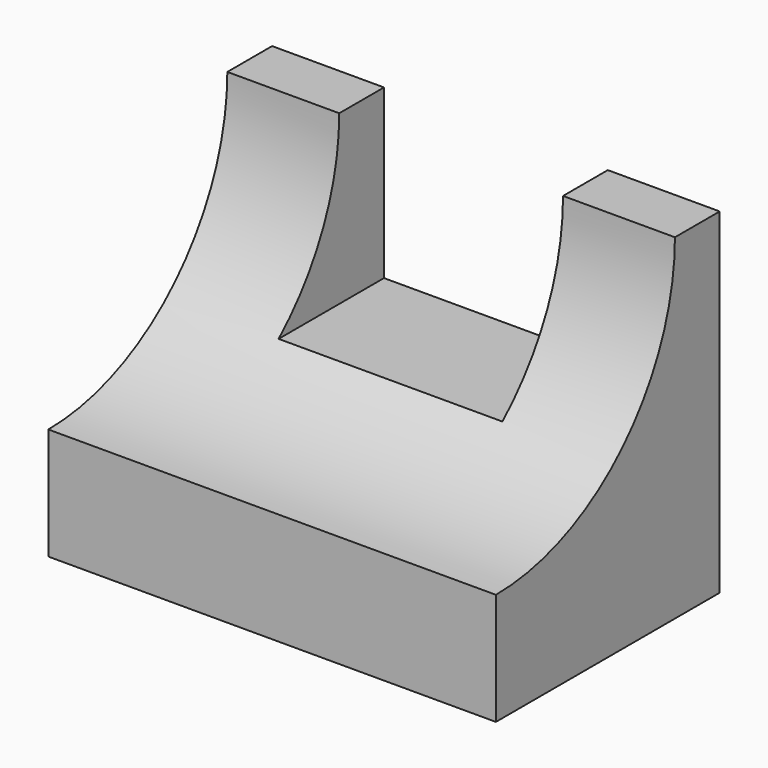
from build123d import *

# Parameters (mm, degrees)
F0_W      = 101.6
F0_H      = 76.2
F1_DEPTH  = 63.5
F3_DEPTH  = 101.601
F4_W      = 50.8
F4_H      = 12.7
F5_DEPTH  = 38.1
F5_FACE_W = 50.8
F5_FACE_H = 38.1
F6_DEPTH  = 50.801


with BuildPart() as f1:
    # F0 (on Front) → F1 (new body)
    with BuildSketch(Plane.XZ):
        with Locations((-7.139655, 0.422321)):
            Rectangle(F0_W, F0_H)
    extrude(amount=F1_DEPTH)

    # F2 (on face) → F3 (cut, through all)
    with BuildSketch(Plane.YZ.offset(43.660345)):
        with BuildLine():
            Line((-63.5, 38.522321), (-63.5, -12.277679))
            ThreePointArc((-63.5, -12.277679), (-27.578976, 2.601297), (-12.7, 38.522321))
            Line((-12.7, 38.522321), (-63.5, 38.522321))
        make_face()
    extrude(amount=-F3_DEPTH, mode=Mode.SUBTRACT)

    # F4 (on face) → F5 (cut)
    with BuildSketch(Plane.XY.offset(38.522321)):
        with Locations((-7.139655, -6.35)):
            Rectangle(F4_W, F4_H)
    extrude(amount=-F5_DEPTH, mode=Mode.SUBTRACT)

    # F5_face (on face) → F6 (cut, through all)
    with BuildSketch(Plane(origin=(-7.139655, -12.7, 19.472321), x_dir=(-1, 0, 0), z_dir=(0, 1, 0))):
        Rectangle(F5_FACE_W, F5_FACE_H)
    extrude(amount=-F6_DEPTH, mode=Mode.SUBTRACT)


solid = f1.part
